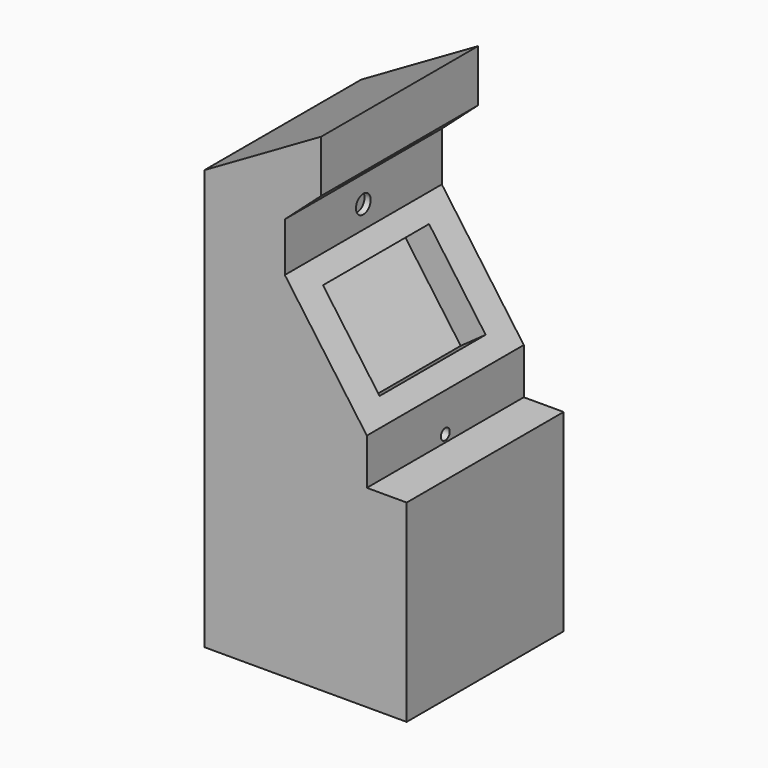
from build123d import *

# Parameters (mm, degrees)
F1_DEPTH = 812.8
F2_W     = 76.2
F2_H     = 431.8
F3_DEPTH = 76.2
F4_W     = 549.230704
F4_H     = 403.036444
F5_DEPTH = 127
F6_R     = 38.1
F7_DEPTH = 25.4
F8_R     = 22.936038
F9_DEPTH = 50.8


with BuildPart() as f1:
    # F0 (on Front) → F1 (new body)
    with BuildSketch(Plane.XZ):
        Polygon((327.509973, 1525.438145), (327.509973, 1741.338145), (-156.425023, 1461.938145), (-156.425023, -277.961855), (681.774977, -277.961855), (681.774977, 522.138145), (516.674977, 522.138145), (516.674977, 712.638145), (176.990611, 1187.931919), (176.990611, 1391.131919), align=None)
    extrude(amount=-F1_DEPTH)

    # F2 (on face) → F3 (cut)
    with BuildSketch(Plane(origin=(-612.619926, 0, 686.57398), x_dir=(0.74615, 0, 0.665778), z_dir=(0.665778, 0, -0.74615))):
        with Locations((1176.240321, -406.003956)):
            Rectangle(F2_W, F2_H)
    extrude(amount=-F3_DEPTH, mode=Mode.SUBTRACT)

    # F4 (on face) → F5 (cut)
    with BuildSketch(Plane(origin=(679.11339, 0, 485.350775), x_dir=(0, 1, 0), z_dir=(0.813581, 0, 0.581452))):
        with Locations((406.4, 571.46676)):
            Rectangle(F4_W, F4_H)
    extrude(amount=-F5_DEPTH, mode=Mode.SUBTRACT)

    # F6 (on face) → F7 (cut)
    with BuildSketch(Plane.YZ.offset(176.990611)):
        with Locations((406.4, 1281.323433)):
            Circle(F6_R)
    extrude(amount=-F7_DEPTH, mode=Mode.SUBTRACT)

    # F8 (on face) → F9 (cut)
    with BuildSketch(Plane.YZ.offset(516.674977)):
        with Locations((406.476498, 552.552164)):
            Circle(F8_R)
    extrude(amount=-F9_DEPTH, mode=Mode.SUBTRACT)


solid = f1.part
